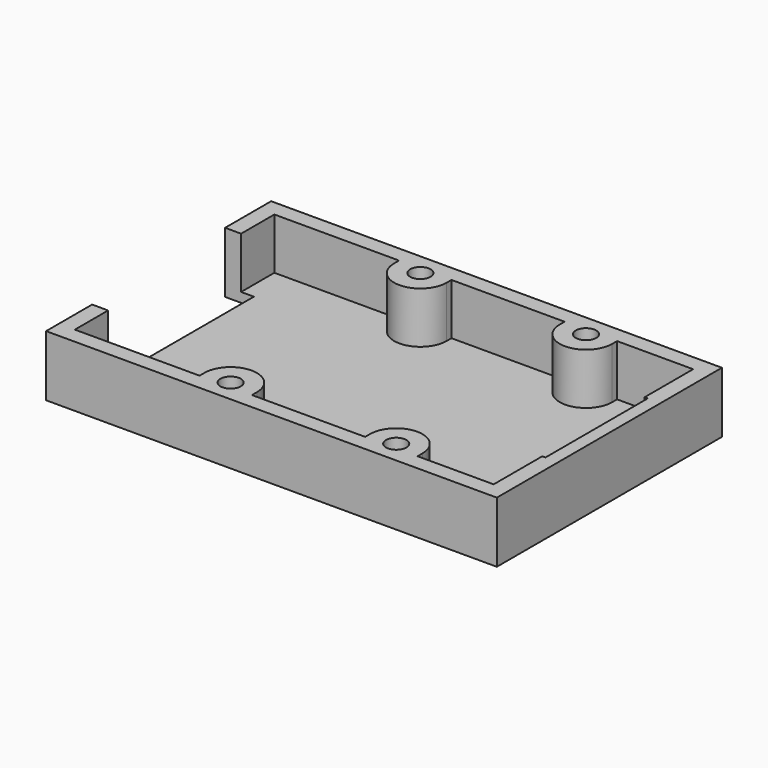
from build123d import *

# Parameters (mm, degrees)
SKETCH_W                = 70.5
SKETCH_H                = 44
PAD_DEPTH               = 9.525
SKETCH001_R             = 1.6
POCKET_DEPTH            = 176.821853
SKETCH001_MIRRORED_2_R  = 1.6
POCKET_MIRRORED_2_DEPTH = 176.821853
POCKET001_DEPTH         = 8.025
SKETCH003_W             = 4.5
SKETCH003_H             = 26
POCKET002_DEPTH         = 9.526


with BuildPart() as part:
    # Sketch → Pad (new body)
    with BuildSketch(Plane.XY):
        with Locations((-3.8, 0)):
            Rectangle(SKETCH_W, SKETCH_H)
    extrude(amount=-PAD_DEPTH)

    # Sketch001 (on Face5 of Pad) → Pocket (cut, through all)
    with BuildSketch(Plane.XY):
        with Locations((-12.95, 18.55)):
            Circle(SKETCH001_R)
    pocket = extrude(amount=-POCKET_DEPTH, mode=Mode.SUBTRACT)

    # Sketch001 Mirrored 2 → Pocket Mirrored 2 (cut, through all)
    with BuildSketch(Plane(origin=(0, 0, 0), x_dir=(-1, 0, 0), z_dir=(0, 0, -1))):
        with Locations((-12.95, 18.55)):
            Circle(SKETCH001_MIRRORED_2_R)
    pocket_mirrored_2 = extrude(amount=POCKET_MIRRORED_2_DEPTH, mode=Mode.SUBTRACT)

    # Mirrored001: Pocket, Pocket Mirrored 2 across XZ
    add(pocket.mirror(Plane.XZ), mode=Mode.SUBTRACT)
    add(pocket_mirrored_2.mirror(Plane.XZ), mode=Mode.SUBTRACT)

    # Sketch002 (on Face4 of MultiTransform) → Pocket001 (cut)
    with BuildSketch(Plane.XY):
        with BuildLine():
            Line((29.45, -10), (29.45, 10))
            Line((29.45, 10), (28.95, 10))
            Line((28.95, 10), (28.95, 19.5))
            Line((28.95, 19.5), (17.05, 19.5))
            Line((17.05, 19.5), (17.05, 18.55))
            ThreePointArc((8.85, 18.55), (12.95, 14.45), (17.05, 18.55))
            Line((8.85, 19.5), (8.85, 18.55))
            Line((8.85, 19.5), (-8.85, 19.5))
            Line((-8.85, 19.5), (-8.85, 18.55))
            ThreePointArc((-17.05, 18.55), (-12.95, 14.45), (-8.85, 18.55))
            Line((-17.05, 19.5), (-17.05, 18.55))
            Line((-17.05, 19.5), (-36.55, 19.5))
            Line((-36.55, 19.5), (-36.55, -19.5))
            Line((-36.55, -19.5), (-17.05, -19.5))
            Line((-17.05, -19.5), (-17.05, -18.549995))
            ThreePointArc((-8.85, -18.549995), (-12.95, -14.45), (-17.05, -18.549995))
            Line((-8.85, -19.5), (-8.85, -18.549995))
            Line((8.85, -19.5), (-8.85, -19.5))
            Line((8.85, -19.5), (8.85, -18.549999))
            ThreePointArc((17.05, -18.55), (12.95, -14.45), (8.85, -18.549999))
            Line((17.05, -19.5), (17.05, -18.55))
            Line((17.05, -19.5), (28.95, -19.5))
            Line((28.95, -19.5), (28.95, -10))
            Line((28.95, -10), (29.45, -10))
        make_face()
    extrude(amount=-POCKET001_DEPTH, mode=Mode.SUBTRACT)

    # Sketch003 (on Face5 of Pocket001) → Pocket002 (cut, through all)
    with BuildSketch(Plane(origin=(0, 0, -9.525), x_dir=(1, 0, 0), z_dir=(0, 0, -1))):
        with Locations((-36.8, 0)):
            Rectangle(SKETCH003_W, SKETCH003_H)
    extrude(amount=-POCKET002_DEPTH, mode=Mode.SUBTRACT)


with BuildPart() as part_1:
    # Clone001 placement: moved
    add(part.part.moved(Location((0, 0, 9.525))))


solid = part_1.part
